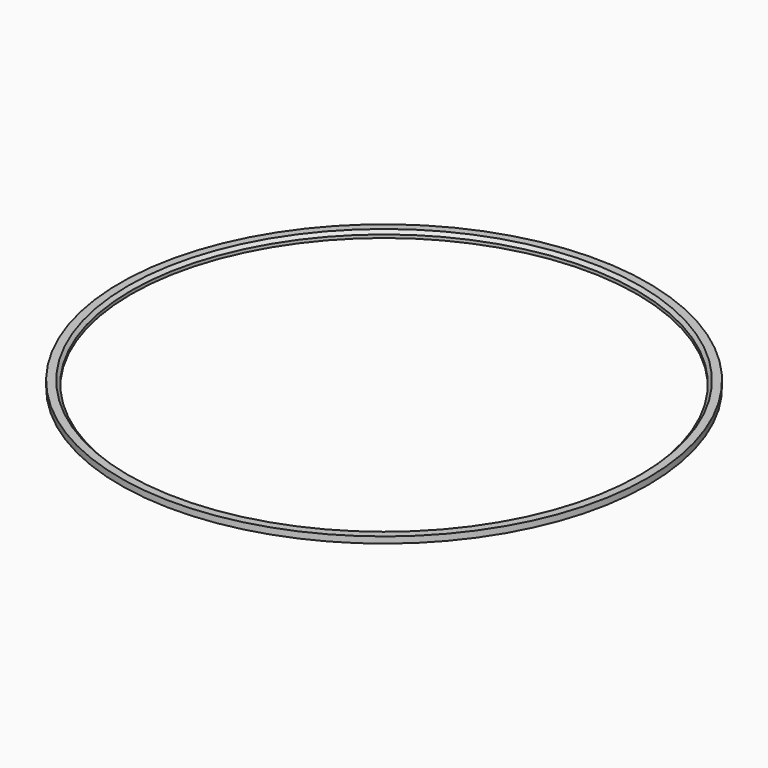
from build123d import *

# Parameters (mm, degrees)
SKETCH_R     = 83.5
SKETCH_R_2   = 80
PAD_DEPTH    = 2
CHAMFER_SIZE = 1


with BuildPart() as part:
    # Sketch → Pad (new body)
    with BuildSketch(Plane.XY):
        Circle(SKETCH_R)
        Circle(SKETCH_R_2, mode=Mode.SUBTRACT)
    extrude(amount=PAD_DEPTH)

    # Chamfer
    chamfer_edges = [part.edges().sort_by_distance(p)[0] for p in [
        (-80, 0, 2),
    ]]
    chamfer(chamfer_edges, length=CHAMFER_SIZE)


solid = part.part
